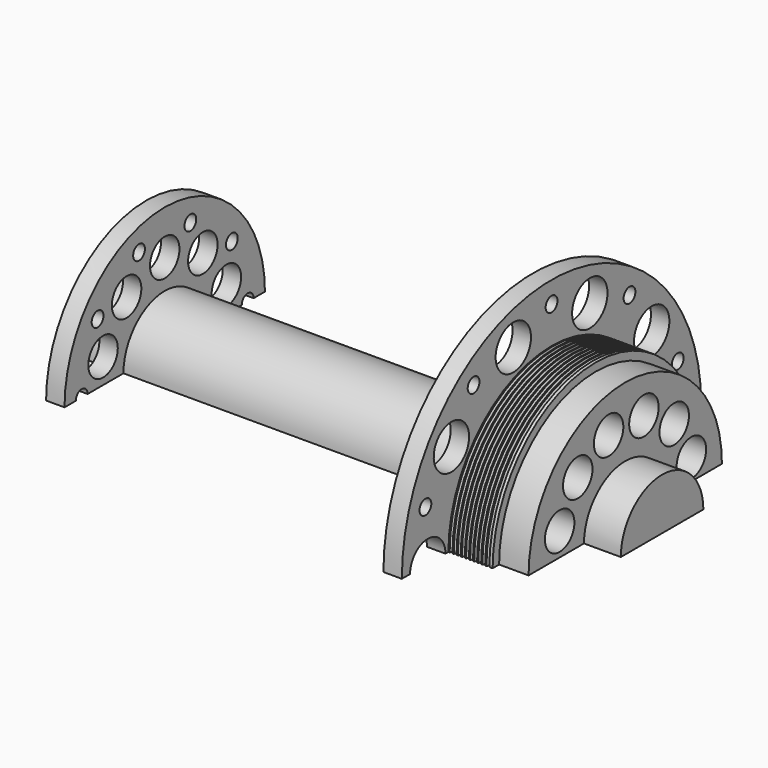
from build123d import *

# Parameters (mm, degrees)
REVOLUTION_ANGLE      = 180
SKETCH001_R           = 2.5
POCKET_DEPTH          = 20
POLARPATTERN_COUNT    = 6
POLARPATTERN_ANGLE    = 150
SKETCH002_R           = 1
POCKET001_DEPTH       = 5
POLARPATTERN001_COUNT = 10
SKETCH003_R           = 1
POCKET002_DEPTH       = 5
POLARPATTERN002_COUNT = 10
SKETCH004_R           = 2.5
POCKET003_DEPTH       = 5
POLARPATTERN003_COUNT = 10
SKETCH005_R           = 3
POCKET004_DEPTH       = 5
POLARPATTERN004_COUNT = 10
LINEARPATTERN_COUNT   = 10
LINEARPATTERN_PITCH   = 0.555556


with BuildPart() as part:
    # Sketch → Revolution (revolve)
    with BuildSketch(Plane.XY):
        Polygon((-37.5, 0), (-37.5, 7), (-32.5, 7), (-32.5, 17), (-30, 17), (-30, 7), (20, 7), (20, 25.4), (22.5, 25.4), (22.5, 17.5), (28.5, 17.5), (28.5, 16.4), (32.5, 16.4), (32.5, 7), (37.5, 7), (37.5, 0), align=None)
    revolve(axis=Axis((0, 0, 0), (1, 0, 0)), revolution_arc=REVOLUTION_ANGLE)

    # Sketch001 → Pocket (cut)
    with BuildSketch(Plane.YZ.offset(32.5)):
        with Locations((-11.128845, 3.166362)):
            Circle(SKETCH001_R)
    pocket = extrude(amount=-POCKET_DEPTH, mode=Mode.SUBTRACT)

    # PolarPattern: Pocket ×6 about axis
    polarpattern_axis = Axis((32.5, 0, 0), (-1, 0, 0))
    for i in range(1, POLARPATTERN_COUNT):
        add(pocket.rotate(polarpattern_axis, i * POLARPATTERN_ANGLE / (POLARPATTERN_COUNT - 1)), mode=Mode.SUBTRACT)

    # Sketch002 → Pocket001 (cut)
    with BuildSketch(Plane(origin=(-32.5, 0, 0), x_dir=(0, -1, 0), z_dir=(-1, 0, 0))):
        with Locations((-14.077337, 0)):
            Circle(SKETCH002_R)
    pocket001 = extrude(amount=-POCKET001_DEPTH, mode=Mode.SUBTRACT)

    # PolarPattern001: Pocket001 ×10 about axis
    polarpattern001_axis = Axis((-32.5, 0, 0), (-1, 0, 0))
    for i in range(1, POLARPATTERN001_COUNT):
        add(pocket001.rotate(polarpattern001_axis, i * 360 / POLARPATTERN001_COUNT), mode=Mode.SUBTRACT)

    # Sketch003 → Pocket002 (cut)
    with BuildSketch(Plane(origin=(20, 0, 0), x_dir=(0, -1, 0), z_dir=(-1, 0, 0))):
        with Locations((-21.398772, 6.952882)):
            Circle(SKETCH003_R)
    pocket002 = extrude(amount=-POCKET002_DEPTH, mode=Mode.SUBTRACT)

    # PolarPattern002: Pocket002 ×10 about axis
    polarpattern002_axis = Axis((20, 0, 0), (-1, 0, 0))
    for i in range(1, POLARPATTERN002_COUNT):
        add(pocket002.rotate(polarpattern002_axis, i * 360 / POLARPATTERN002_COUNT), mode=Mode.SUBTRACT)

    # Sketch004 → Pocket003 (cut)
    with BuildSketch(Plane(origin=(-32.5, 0, 0), x_dir=(0, -1, 0), z_dir=(-1, 0, 0))):
        with Locations((-10.461622, 3.399187)):
            Circle(SKETCH004_R)
    pocket003 = extrude(amount=-POCKET003_DEPTH, mode=Mode.SUBTRACT)

    # PolarPattern003: Pocket003 ×10 about axis
    polarpattern003_axis = Axis((-32.5, 0, 0), (-1, 0, 0))
    for i in range(1, POLARPATTERN003_COUNT):
        add(pocket003.rotate(polarpattern003_axis, i * 360 / POLARPATTERN003_COUNT), mode=Mode.SUBTRACT)

    # Sketch005 → Pocket004 (cut)
    with BuildSketch(Plane(origin=(20, 0, 0), x_dir=(0, -1, 0), z_dir=(-1, 0, 0))):
        with Locations((-21, 0)):
            Circle(SKETCH005_R)
    pocket004 = extrude(amount=-POCKET004_DEPTH, mode=Mode.SUBTRACT)

    # PolarPattern004: Pocket004 ×10 about axis
    polarpattern004_axis = Axis((20, 0, 0), (-1, 0, 0))
    for i in range(1, POLARPATTERN004_COUNT):
        add(pocket004.rotate(polarpattern004_axis, i * 360 / POLARPATTERN004_COUNT), mode=Mode.SUBTRACT)

    # Sketch006 → Groove (revolve, cut)
    with BuildSketch(Plane(origin=(0, 0, 0), x_dir=(1, 0, 0), z_dir=(0, 0, -1))):
        Polygon((22.586137, 17.633119), (22.85774, 17.162689), (23.109543, 17.598824), (23.109543, 18.335896), (22.603432, 18.335896), align=None)
    groove = revolve(axis=Axis((0, 0, 0), (1, 0, 0)), mode=Mode.SUBTRACT)

    # LinearPattern: Groove ×10
    with Locations(*[(i * LINEARPATTERN_PITCH, 0, 0) for i in range(1, LINEARPATTERN_COUNT)]):
        add(groove, mode=Mode.SUBTRACT)


solid = part.part
